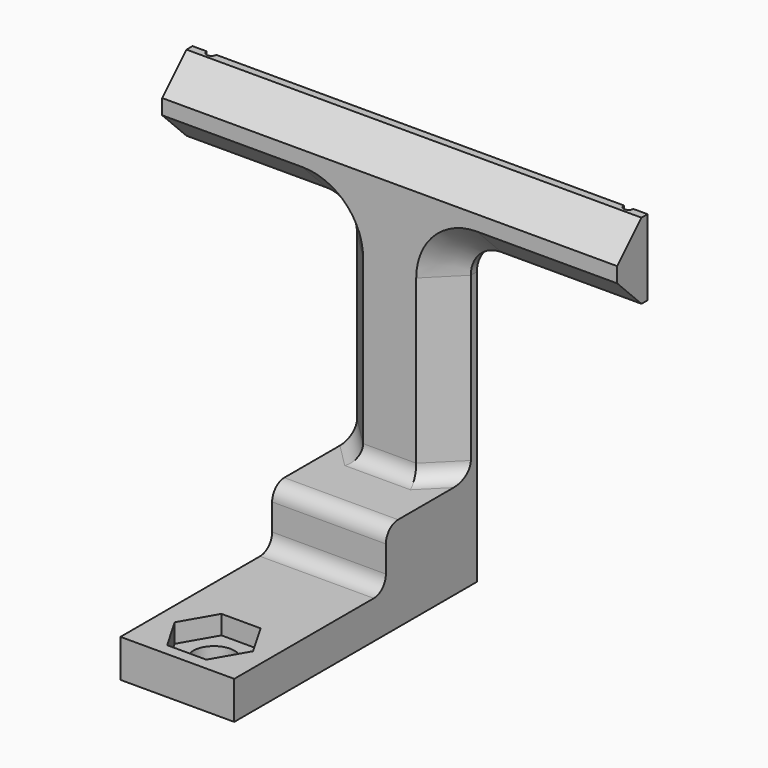
from build123d import *

# Parameters (mm, degrees)
F1_DEPTH  = 6.35
F2_W      = 19.05
F2_H      = 50.8
F2_R      = 3.4537028987
F3_DEPTH  = 6.35
F4_W      = 19.05
F4_H      = 9.525
F5_DEPTH  = 12.7
F6_R      = 2.54
F7_R      = 3.4537028987
F8_DEPTH  = 3.175
F9_R      = 5.08
F10_SIZE  = 5.08
F11_R     = 2.54
F12_R     = 0.79375
F13_DEPTH = 25.4


with BuildPart() as f1:
    # F0 (on Front) → F1 (new body)
    with BuildSketch(Plane.XZ):
        Polygon((38.1, 57.15), (-38.1, 57.15), (-38.1, 44.45), (-9.525, 44.45), (-9.525, 0), (0, 0), (9.525, 0), (9.525, 44.45), (38.1, 44.45), align=None)
    extrude(amount=F1_DEPTH)

    # F2 (on face) → F3 (join)
    with BuildSketch(Plane(origin=(0, 0, 0), x_dir=(1, 0, 0), z_dir=(0, 0, -1))):
        with Locations((0, 25.4)):
            Rectangle(F2_W, F2_H)
        with Locations((0, 43.1535504758)):
            Circle(F2_R, mode=Mode.SUBTRACT)
    extrude(amount=F3_DEPTH)

    # F4 (on face) → F5 (join)
    with BuildSketch(Plane.XZ.offset(6.35)):
        with Locations((0, 4.7625)):
            Rectangle(F4_W, F4_H)
    extrude(amount=F5_DEPTH)

    # F6
    f6_edges = [f1.edges().sort_by_distance(p)[0] for p in [
        (0, -19.05, 9.525),
        (0, -19.05, 0),
    ]]
    fillet(f6_edges, radius=F6_R)

    # F7 (on face) → F8 (cut)
    with BuildSketch(Plane.XY):
        Polygon((-6.5624518347, -43.1535504758), (-3.2812259174, -48.8368004758), (3.2812259174, -48.8368004758), (6.5624518347, -43.1535504758), (3.2812259174, -37.4703004758), (-3.2812259174, -37.4703004758), align=None)
        with Locations((0, -43.1535504758)):
            Circle(F7_R, mode=Mode.SUBTRACT)
    extrude(amount=-F8_DEPTH, mode=Mode.SUBTRACT)

    # F9
    f9_edges = [f1.edges().sort_by_distance(p)[0] for p in [
        (-9.525, -3.175, 44.45),
        (9.525, -3.175, 44.45),
    ]]
    fillet(f9_edges, radius=F9_R)

    # F10
    f10_edges = [f1.edges().sort_by_distance(p)[0] for p in [
        (0, -6.35, 57.15),
        (-26.3525, -6.35, 44.45),
        (11.012898, -6.35, 42.962102),
    ]]
    chamfer(f10_edges, length=F10_SIZE)

    # F11
    f11_edges = [f1.edges().sort_by_distance(p)[0] for p in [
        (-6.985, -3.81, 9.525),
        (6.985, -3.81, 9.525),
        (0, -6.35, 9.525),
    ]]
    fillet(f11_edges, radius=F11_R)

    # F12 (on face) → F13 (cut)
    with BuildSketch(Plane.XY.offset(57.15)):
        with Locations((34.925, 0)):
            Circle(F12_R)
        with Locations((-34.925, 0)):
            Circle(F12_R)
    extrude(amount=-F13_DEPTH, mode=Mode.SUBTRACT)


solid = f1.part
